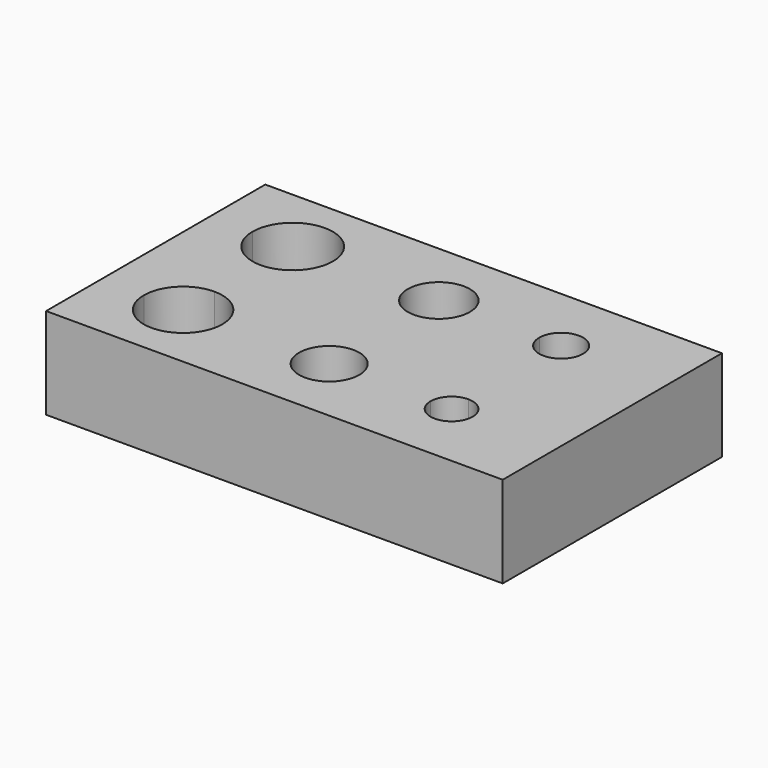
from build123d import *

# Parameters (mm, degrees)
F1_DEPTH = 5


with BuildPart() as f1:
    # F0 (on Top) → F1 (new body)
    with BuildSketch(Plane.XY):
        with BuildLine():
            Line((-10.2, 3.75), (-12.5, 3.75))
            Line((-12.5, 3.75), (-12.5, 0))
            Line((-12.5, 0), (-12.5, -3.75))
            Line((-12.5, -3.75), (-10.15, -3.75))
            ThreePointArc((-10.15, -3.75), (-9.5202795796, -2.2297204204), (-8, -1.6))
            Line((-8, -1.6), (-8, 1.55))
            ThreePointArc((-8, 1.55), (-9.5556349186, 2.1943650814), (-10.2, 3.75))
        make_face()
        with BuildLine():
            ThreePointArc((6.7, 2.55), (5.8514718626, 2.9014718626), (5.5, 3.75))
            Line((5.5, 3.75), (1.7, 3.75))
            ThreePointArc((1.7, 3.75), (0, 2.05), (-1.7, 3.75))
            Line((-1.7, 3.75), (-5.8, 3.75))
            ThreePointArc((-5.8, 3.75), (-6.4443650814, 2.1943650814), (-8, 1.55))
            Line((-8, 1.55), (-8, -1.6))
            ThreePointArc((-8, -1.6), (-6.4797204204, -2.2297204204), (-5.85, -3.75))
            Line((-5.85, -3.75), (-1.65, -3.75))
            ThreePointArc((-1.65, -3.75), (0, -2.1), (1.65, -3.75))
            Line((1.65, -3.75), (5.55, -3.75))
            ThreePointArc((5.55, -3.75), (5.8868272016, -2.9368272016), (6.7, -2.6))
            Line((6.7, -2.6), (6.7, 2.55))
        make_face()
        with BuildLine():
            Line((12.5, 0), (12.5, 3.75))
            Line((12.5, 3.75), (7.9, 3.75))
            ThreePointArc((7.9, 3.75), (7.5485281374, 2.9014718626), (6.7, 2.55))
            Line((6.7, 2.55), (6.7, -2.6))
            ThreePointArc((6.7, -2.6), (7.5131727984, -2.9368272016), (7.85, -3.75))
            Line((7.85, -3.75), (12.5, -3.75))
            Line((12.5, -3.75), (12.5, 0))
        make_face()
        with BuildLine():
            Line((12.5, -7.5), (12.5, -3.75))
            Line((12.5, -3.75), (7.85, -3.75))
            ThreePointArc((7.85, -3.75), (6.7, -4.9), (5.55, -3.75))
            Line((5.55, -3.75), (1.65, -3.75))
            ThreePointArc((1.65, -3.75), (0, -5.4), (-1.65, -3.75))
            Line((-1.65, -3.75), (-5.85, -3.75))
            ThreePointArc((-5.85, -3.75), (-8, -5.9), (-10.15, -3.75))
            Line((-10.15, -3.75), (-12.5, -3.75))
            Line((-12.5, -3.75), (-12.5, -7.5))
            Line((-12.5, -7.5), (12.5, -7.5))
        make_face()
        with BuildLine():
            Line((12.5, 3.75), (12.5, 7.5))
            Line((12.5, 7.5), (-12.5, 7.5))
            Line((-12.5, 7.5), (-12.5, 3.75))
            Line((-12.5, 3.75), (-10.2, 3.75))
            ThreePointArc((-10.2, 3.75), (-8, 5.95), (-5.8, 3.75))
            Line((-5.8, 3.75), (-1.7, 3.75))
            ThreePointArc((-1.7, 3.75), (0, 5.45), (1.7, 3.75))
            Line((1.7, 3.75), (5.5, 3.75))
            ThreePointArc((5.5, 3.75), (6.7, 4.95), (7.9, 3.75))
            Line((7.9, 3.75), (12.5, 3.75))
        make_face()
    extrude(amount=F1_DEPTH)


solid = f1.part
